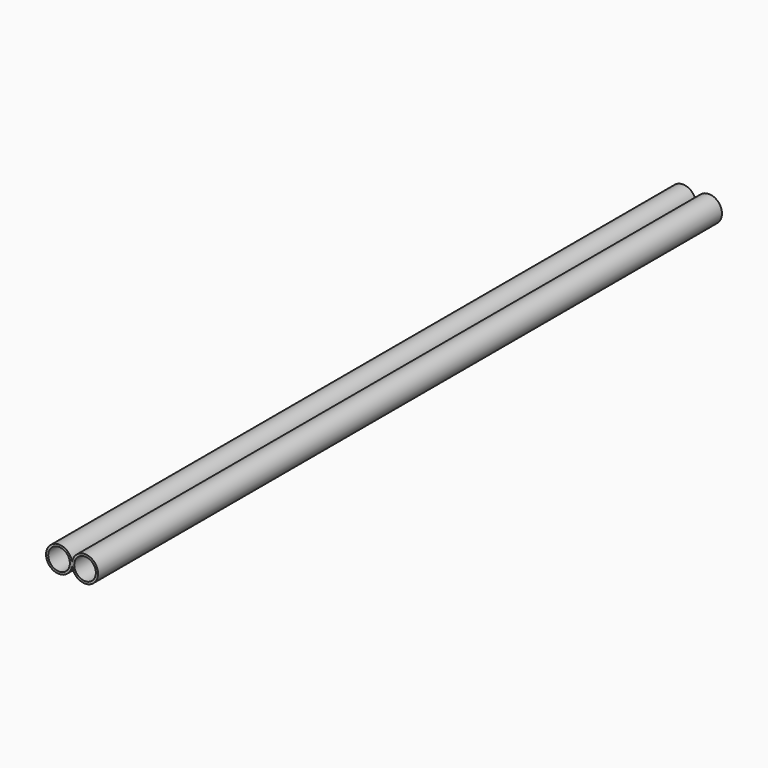
from build123d import *

# Parameters (mm, degrees)
F0_R     = 19.05
F0_R_2   = 15.875
F1_DEPTH = 1143


with BuildPart() as f1:
    # F0 (on Front) → F1 (new body)
    with BuildSketch(Plane.XZ):
        with BuildLine():
            ThreePointArc((34.925, 0), (19.05, 15.875), (3.175, 0))
            ThreePointArc((3.175, 0), (19.05, -15.875), (34.925, 0))
        make_face()
        with BuildLine():
            ThreePointArc((38.1, 0), (19.05, 19.05), (0, 0))
            ThreePointArc((0, 0), (19.05, -19.05), (38.1, 0))
        make_face()
        with BuildLine():
            ThreePointArc((34.925, 0), (19.05, -15.875), (3.175, 0))
            ThreePointArc((3.175, 0), (19.05, 15.875), (34.925, 0))
        make_face(mode=Mode.SUBTRACT)
        with Locations((-19.05, 0)):
            Circle(F0_R)
        with Locations((-19.05, 0)):
            Circle(F0_R_2, mode=Mode.SUBTRACT)
    extrude(amount=F1_DEPTH)


solid = f1.part
